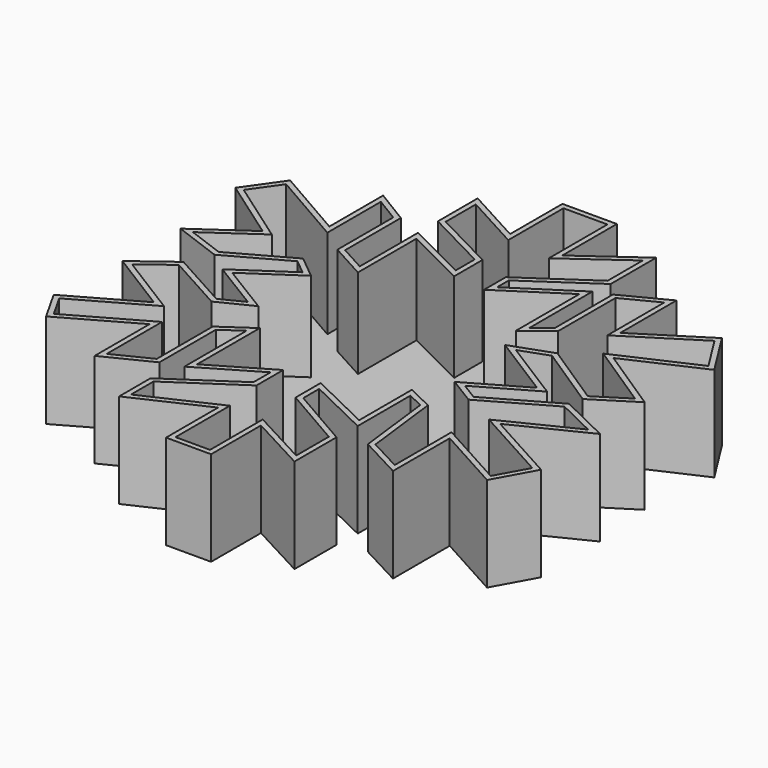
from build123d import *

# Parameters (mm, degrees)
F1_DEPTH = 17
F2_T     = 1


with BuildPart() as f1:
    # F0 (on Top) → F1 (new body)
    with BuildSketch(Plane.XY):
        Polygon((-27.7714431286, 3.3306172118), (-42.2787889838, 11.6773098707), (-46.0546761751, 6.3115782104), (-33.8464085439, -2.2794293716), (-43.471172452, -8.9906910434), (-36.515597254, -11.5741910413), (-25.3866743296, -5.4135369137), (-21.0145972669, -8.9906910434), (-30.7524055243, -15.5488057062), (-21.0145972669, -21.5107295662), (-27.3739825934, -24.6904212981), (-38.5029055178, -18.5297690332), (-44.0673679113, -22.703114897), (-31.9447889924, -30.2548836917), (-45.6572137773, -38.0053855479), (-43.173648768, -42.3993846747), (-29.0093820945, -34.3934938956), (-29.0093820945, -47.5444607437), (-22.2069825977, -44.1660396755), (-22.2069825977, -30.8510754257), (-16.4437890053, -26.8764607608), (-16.4437890053, -41.7812690139), (-5.3148670122, -35.2231524885), (-5.3148670122, -41.5825396776), (-18.0336348712, -50.1279607415), (-18.0336348712, -55.4936937988), (-4.3212124147, -49.1343066096), (-4.3212124147, -62.0518065989), (2.2369034123, -62.0518065989), (2.2369034123, -49.5317690074), (13.3658256382, -55.4936937988), (13.3658256382, -47.7431900799), (1.6407109797, -40.9863442183), (1.6407109797, -35.0244231522), (13.5645577684, -40.787614882), (13.5645577684, -28.2675754279), (18.5328256339, -30.6523460895), (20.3214026988, -45.3584231436), (26.6807861626, -48.7368442118), (26.6807861626, -35.2231524885), (39.9957485497, -42.5761900842), (43.2241563976, -36.7301531906), (28.4681427782, -28.5813113274), (41.9830568135, -21.908191964), (34.6300154924, -18.3310378343), (22.1099797636, -25.4853442311), (16.9429797679, -22.3056524992), (27.6744421571, -16.1449983716), (15.3531348333, -8.394498378), (23.1036357582, -5.6122676469), (35.2262109518, -13.5614983737), (41.1881357431, -9.7856139764), (28.4693632275, -1.4389213175), (43.1467061942, 5.2062330151), (38.8033650815, 12.0747713372), (25.2896733582, 3.5293472465), (25.2896733582, 17.0430392027), (18.7315568328, 13.6646172032), (18.7315568328, 0), (13.7632861733, -3.8236908149), (13.7632861733, 11.2798474729), (1.8394411309, 3.5293472465), (1.8394411309, 8.6963474751), (14.3594788387, 17.2417722642), (14.3594788387, 25.5884621292), (3.0318258796, 17.4405016005), (3.0318258796, 31.3516557217), (-5.3148670122, 31.3516557217), (-5.3148670122, 18.2354263961), (-16.2450578064, 24.1973474622), (-16.2450578064, 17.0430392027), (-4.3212124147, 10.8823850751), (-4.3212124147, 4.1255401447), (-16.2450578064, 10.0874630734), (-16.2450578064, -3.8236908149), (-23.2006367296, 0), (-23.2006367296, 13.2671557367), (-27.7714431286, 16.0493850708), align=None)
    extrude(amount=F1_DEPTH)

    # F2
    f2_openings = [f1.faces().sort_by_distance(p)[0] for p in [
        (-0.933502, -15.354262, 17),
    ]]
    offset(amount=F2_T, openings=f2_openings, kind=Kind.INTERSECTION)


solid = f1.part
